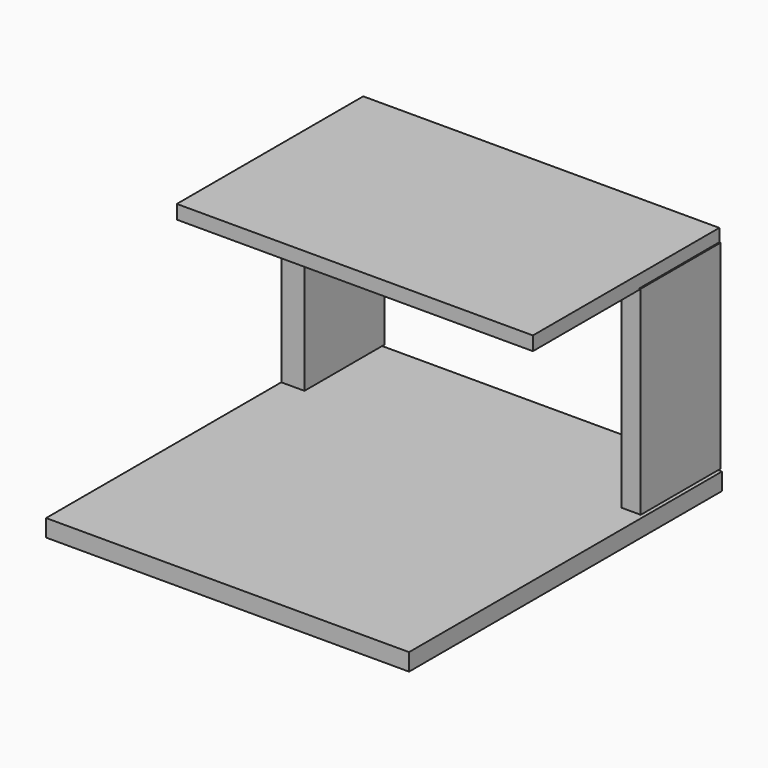
from build123d import *

# Parameters (mm, degrees)
F0_W     = 280.7343
F0_H     = 2429.11005
F0_W_2   = 235.417038
F1_DEPTH = 1219.2
F2_W     = 4347.495317
F2_H     = 169.412613
F3_DEPTH = 2844.8
F4_W     = 4431.990624
F4_H     = 210.059166
F5_DEPTH = 4775.2


with BuildPart() as f1:
    # F0 (on Front) → F1 (new body)
    with BuildSketch(Plane.XZ):
        with Locations((-2069.721341, -2.870083)):
            Rectangle(F0_W, F0_H)
        with Locations((2058.635786, 0)):
            Rectangle(F0_W_2, F0_H)
    extrude(amount=F1_DEPTH)


with BuildPart() as f3:
    # F2 (on Front) → F3 (new body)
    with BuildSketch(Plane.XZ):
        with Locations((-13.43739, 1284.331083)):
            Rectangle(F2_W, F2_H)
    extrude(amount=F3_DEPTH)


with BuildPart() as f5:
    # F4 (on Front) → F5 (new body)
    with BuildSketch(Plane.XZ):
        with Locations((-23.355007, -1344.926596)):
            Rectangle(F4_W, F4_H)
    extrude(amount=F5_DEPTH)


solid = Compound([f1.part, f3.part, f5.part])
